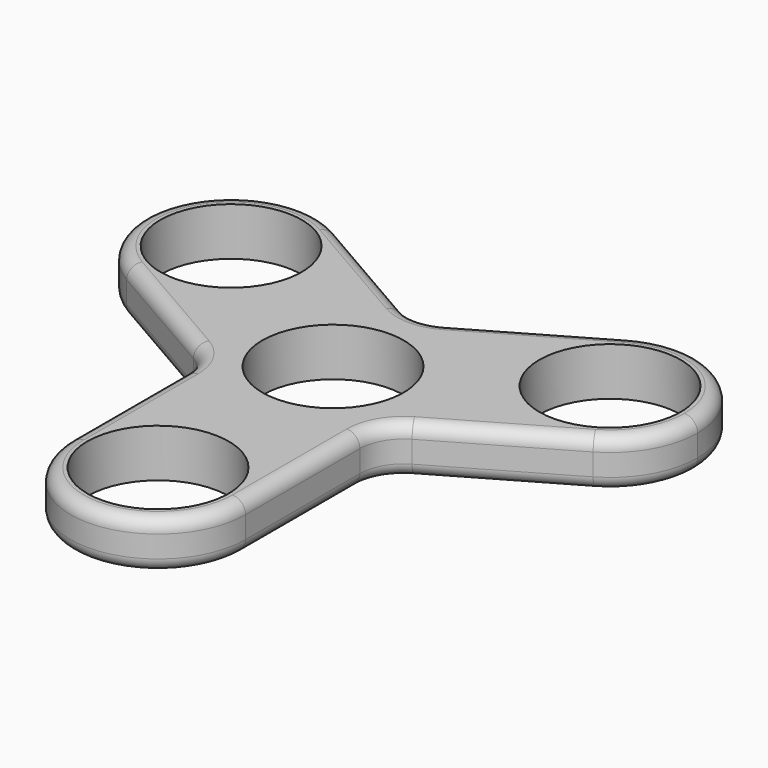
from build123d import *

# Parameters (mm, degrees)
F2_DEPTH = 5.5
F3_R     = 5
F4_D     = 16.15
F5_R     = 1.5


with BuildPart() as f2:
    # F1 (on Top) → F2 (new body)
    with BuildSketch(Plane.XY):
        with BuildLine():
            ThreePointArc((-26.6506350946, 3.8397459622), (-16.6506350946, 3.8397459622), (-11.6506350946, 12.5))
            ThreePointArc((-11.6506350946, 12.5), (-12.9903810568, 17.5), (-16.6506350946, 21.1602540378))
            ThreePointArc((-16.6506350946, 21.1602540378), (-30.3108891325, 17.5), (-26.6506350946, 3.8397459622))
        make_face()
        with BuildLine():
            ThreePointArc((-16.6506350946, 21.1602540378), (-12.9903810568, 17.5), (-11.6506350946, 12.5))
            ThreePointArc((-11.6506350946, 12.5), (-16.6506350946, 3.8397459622), (-26.6506350946, 3.8397459622))
            Line((-26.6506350946, 3.8397459622), (-10, -5.7735026919))
            Line((-10, -5.7735026919), (-10, -25))
            ThreePointArc((-10, -25), (0, -15), (10, -25))
            Line((10, -25), (10, -5.7735026919))
            Line((10, -5.7735026919), (26.6506350946, 3.8397459622))
            ThreePointArc((26.6506350946, 3.8397459622), (12.9903810568, 7.5), (16.6506350946, 21.1602540378))
            Line((16.6506350946, 21.1602540378), (0, 11.5470053838))
            Line((0, 11.5470053838), (-16.6506350946, 21.1602540378))
        make_face()
        with BuildLine():
            ThreePointArc((31.6506350946, 12.5), (26.6506350946, 21.1602540378), (16.6506350946, 21.1602540378))
            ThreePointArc((16.6506350946, 21.1602540378), (12.9903810568, 7.5), (26.6506350946, 3.8397459622))
            ThreePointArc((26.6506350946, 3.8397459622), (30.3108891325, 7.5), (31.6506350946, 12.5))
        make_face()
        with BuildLine():
            ThreePointArc((10, -25), (0, -15), (-10, -25))
            ThreePointArc((-10, -25), (0, -35), (10, -25))
        make_face()
    extrude(amount=F2_DEPTH)

    # F3
    f3_edges = [f2.edges().sort_by_distance(p)[0] for p in [
        (-10, -5.773503, 2.75),
        (10, -5.773503, 2.75),
        (0, 11.547005, 2.75),
    ]]
    fillet(f3_edges, radius=F3_R)

    # F4 (through all)
    with Locations(Plane(origin=(0, 0, 0), x_dir=(1, 0, 0), z_dir=(0, 0, -1))):
        with Locations((0, 25), (-21.6506350946, -12.5), (21.6506350946, -12.5), (0, 0)):
            Hole(F4_D / 2)

    # F5
    f5_edges = [f2.edges().sort_by_distance(p)[0] for p in [
        (-19.575318, -0.245191, 5.5),
        (-10, -16.830127, 0),
    ]]
    fillet(f5_edges, radius=F5_R)


solid = f2.part
